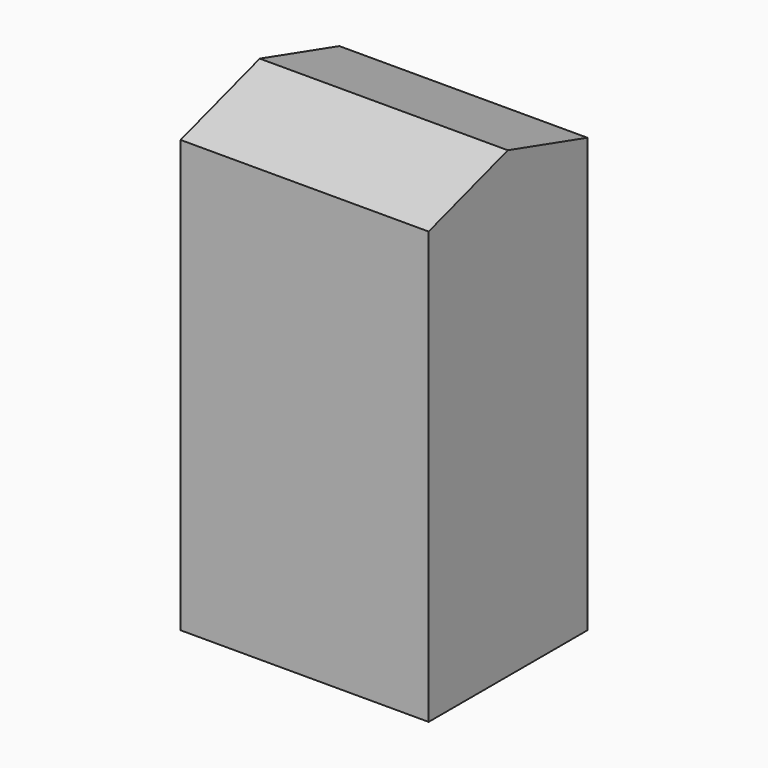
from build123d import *

# Parameters (mm, degrees)
F0_W     = 150
F0_H     = 120
F1_DEPTH = 280
F3_DEPTH = 150


with BuildPart() as f1:
    # F0 (on Top) → F1 (new body)
    with BuildSketch(Plane.XY):
        with Locations((-1.511779, 0.179398)):
            Rectangle(F0_W, F0_H)
    extrude(amount=F1_DEPTH)

    # F2 (on face) → F3 (cut, through all)
    with BuildSketch(Plane(origin=(-76.511779, 0, 0), x_dir=(0, -1, 0), z_dir=(-1, 0, 0))):
        Polygon((-60.179398, 262.2087), (0, 280), (-60.179398, 280), align=None)
        Polygon((59.820602, 280), (0, 280), (59.820602, 261.037251), align=None)
    extrude(amount=-F3_DEPTH, mode=Mode.SUBTRACT)


solid = f1.part
